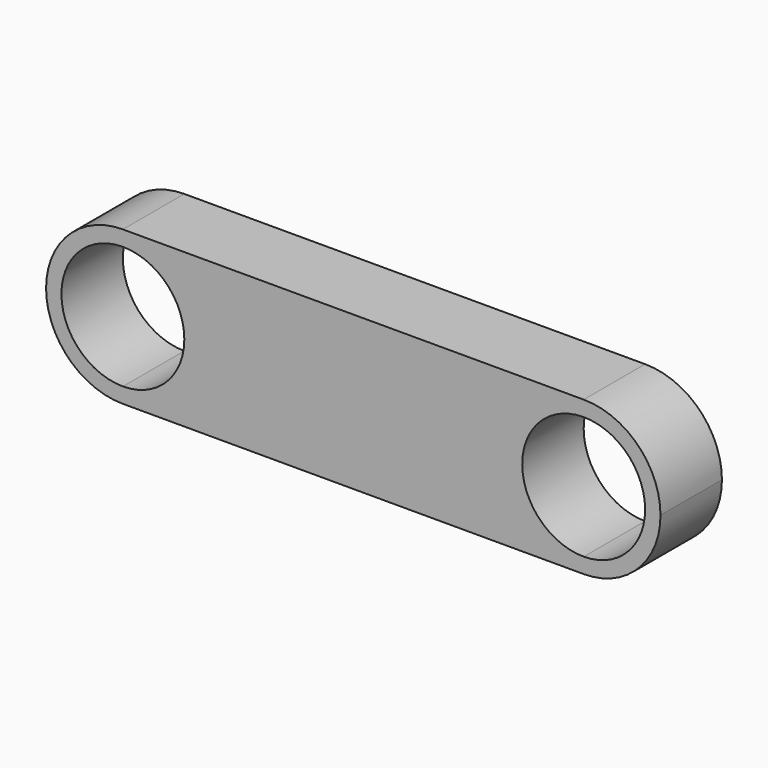
from build123d import *

# Parameters (mm, degrees)
F1_DEPTH = 50


with BuildPart() as f1:
    # F0 (on Front) → F1 (new body)
    with BuildSketch(Plane.XZ):
        with BuildLine():
            Line((0, -50), (150, -50))
            ThreePointArc((150, -50), (100, 0), (150, 50))
            Line((150, 50), (-150, 50))
            ThreePointArc((-150, 50), (-114.644661, 35.355339), (-100, 0))
            ThreePointArc((-100, 0), (-114.644661, -35.355339), (-150, -50))
            Line((-150, -50), (0, -50))
        make_face()
        with BuildLine():
            ThreePointArc((-150, 50), (-200, 0), (-150, -50))
            Line((-150, -50), (-150, -40))
            ThreePointArc((-150, -40), (-190, 0), (-150, 40))
            Line((-150, 40), (-150, 50))
        make_face()
        with BuildLine():
            Line((150, -40), (150, -50))
            ThreePointArc((150, -50), (185.355339, -35.355339), (200, 0))
            ThreePointArc((200, 0), (185.355339, 35.355339), (150, 50))
            Line((150, 50), (150, 40))
            ThreePointArc((150, 40), (178.284271, 28.284271), (190, 0))
            ThreePointArc((190, 0), (178.284271, -28.284271), (150, -40))
        make_face()
        with BuildLine():
            ThreePointArc((150, 50), (100, 0), (150, -50))
            Line((150, -50), (150, -40))
            ThreePointArc((150, -40), (110, 0), (150, 40))
            Line((150, 40), (150, 50))
        make_face()
        with BuildLine():
            Line((-150, -40), (-150, -50))
            ThreePointArc((-150, -50), (-114.644661, -35.355339), (-100, 0))
            ThreePointArc((-100, 0), (-114.644661, 35.355339), (-150, 50))
            Line((-150, 50), (-150, 40))
            ThreePointArc((-150, 40), (-121.715729, 28.284271), (-110, 0))
            ThreePointArc((-110, 0), (-121.715729, -28.284271), (-150, -40))
        make_face()
    extrude(amount=F1_DEPTH)


solid = f1.part
